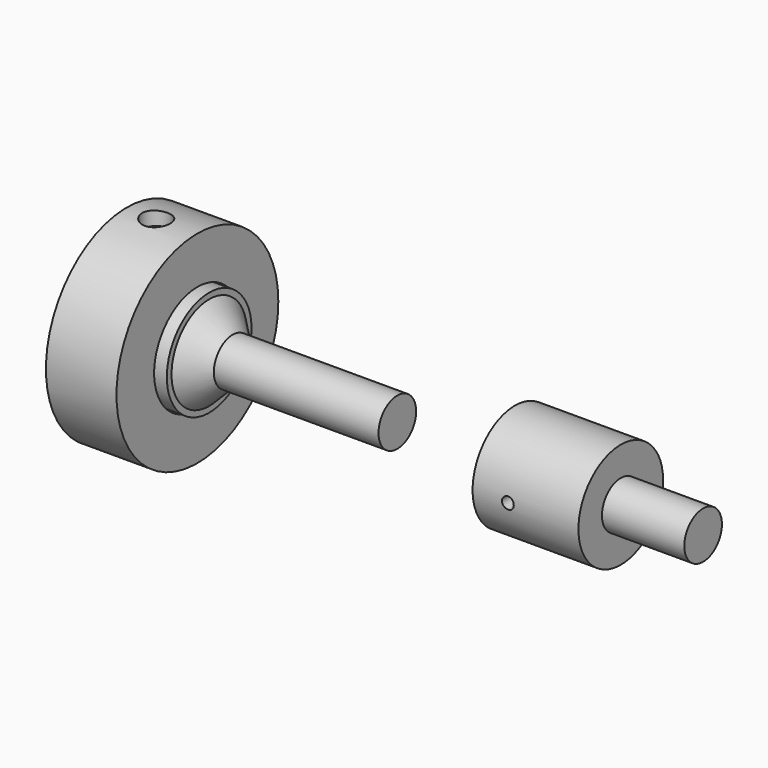
from build123d import *

# Parameters (mm, degrees)
F2_R           = 0.635
F3_DEPTH       = 5.716
F4_DEPTH       = 5.7160001
F5_SIZE        = 2.54
F0_W           = 7.62
F0_H           = 5.08
F7_W           = 5.588
F7_H           = 2.54
F8_DEPTH       = 6.35
F9_R           = 1.524
F10_DEPTH      = 10.923
F10_DEPTH_BACK = 10.923


with BuildPart() as f1:
    # F0 (on Top) → F1 (revolve)
    with BuildSketch(Plane.XY):
        Polygon((-8.89, 5.715), (-20.32, 5.715), (-20.32, 4.064), (-12.7, 4.064), (-12.7, 0), (0, 0), (0, 2.54), (-8.89, 2.54), align=None)
    revolve(axis=Axis((-12.0637848582, 0, 0), (-1, 0, 0)))

    # F2 (on Front) → F3 (cut, through all)
    with BuildSketch(Plane.XZ):
        with Locations((-16.51, 0)):
            Circle(F2_R)
    extrude(amount=-F3_DEPTH, mode=Mode.SUBTRACT)

    # F2 (on Front) → F4 (cut, through all)
    with BuildSketch(Plane.XZ):
        with Locations((-16.51, 0)):
            Circle(F2_R)
    extrude(amount=F4_DEPTH, mode=Mode.SUBTRACT)


with BuildPart() as f1b:
    # F0 (on Top) → F1, piece 2 (revolve)
    with BuildSketch(Plane.XY):
        Polygon((-53.34, 2.54), (-53.34, 5.715), (-63.5, 5.715), (-63.5, 4.318), (-55.88, 4.318), (-55.88, 0), (-33.02, 0), (-33.02, 2.54), align=None)
    revolve(axis=Axis((-12.0637848582, 0, 0), (-1, 0, 0)))

    # F5
    f5_edges = [f1b.edges().sort_by_distance(p)[0] for p in [
        (-53.34, -2.54, 0),
    ]]
    chamfer(f5_edges, length=F5_SIZE)


with BuildPart() as f6:
    # F0 (on Top) → F6 (revolve)
    with BuildSketch(Plane.XY):
        with Locations((-58.42, 8.382)):
            Rectangle(F0_W, F0_H)
    revolve(axis=Axis((-12.0637848582, 0, 0), (-1, 0, 0)))

    # F7 (on face) → F8 (cut)
    with BuildSketch(Plane(origin=(-62.23, 0, 0), x_dir=(0, -1, 0), z_dir=(-1, 0, 0))):
        with Locations((0, 8.128)):
            Rectangle(F7_W, F7_H)
        with Locations((0, -8.128)):
            Rectangle(F7_W, F7_H)
    extrude(amount=-F8_DEPTH, mode=Mode.SUBTRACT)


with BuildPart() as f10_tool:
    # F9 (on Top) → F10 (new body, two sides)
    with BuildSketch(Plane.XY) as f10_sk:
        with Locations((-59.055, 0)):
            Circle(F9_R)
    extrude(amount=-F10_DEPTH)
    extrude(f10_sk.sketch, amount=F10_DEPTH_BACK)


with BuildPart() as f1b_1:
    add(f1b.part)

    # F10: cut by f10_tool
    add(f10_tool.part, mode=Mode.SUBTRACT)


with BuildPart() as f6_1:
    add(f6.part)

    # F10: cut by f10_tool
    add(f10_tool.part, mode=Mode.SUBTRACT)


solid = Compound([f1.part, f1b_1.part, f6_1.part])
